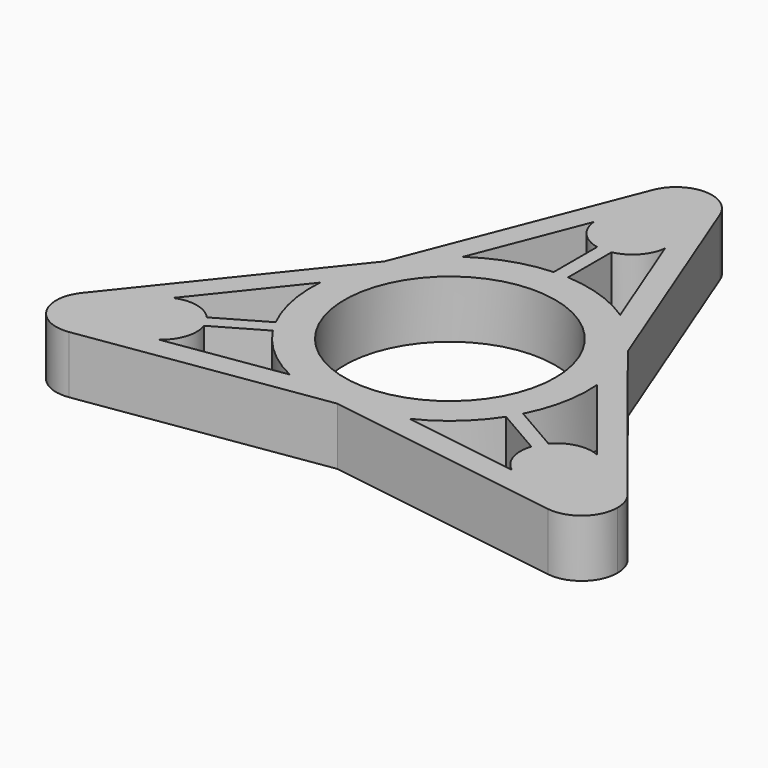
from build123d import *

# Parameters (mm, degrees)
F0_R     = 11
F1_DEPTH = 6


with BuildPart() as f1:
    # F0 (on Top) → F1 (new body)
    with BuildSketch(Plane.XY):
        with BuildLine():
            Line((-23.4410374628, -14.399714693), (-21.9907688963, -13.5624017458))
            ThreePointArc((-21.9907688963, -13.5624017458), (-22.3001541474, -12.875), (-22.7407688963, -12.2633636401))
            Line((-22.7407688963, -12.2633636401), (-24.1910374628, -13.1006765873))
            ThreePointArc((-24.1910374628, -13.1006765873), (-24.3757674093, -12.1622827062), (-24.317114362, -11.2076790978))
            ThreePointArc((-24.317114362, -11.2076790978), (-26.5881000277, -11.1471996176), (-28.4772699032, -12.4089725142))
            ThreePointArc((-28.4772699032, -12.4089725142), (-28.7953446758, -16.625), (-24.9851203838, -18.4575529095))
            ThreePointArc((-24.9851203838, -18.4575529095), (-22.9478080637, -17.4523702536), (-21.8646919971, -15.4553992353))
            ThreePointArc((-21.8646919971, -15.4553992353), (-22.7207294962, -15.0288924601), (-23.4410374628, -14.399714693))
        make_face()
        with BuildLine():
            Line((-17.0770764321, -10.7254800788), (-12.1655591981, -7.8898142816))
            ThreePointArc((-12.1655591981, -7.8898142816), (-9.565708177, -10.8971201275), (-6.2468655995, -13.0853609114))
            Line((-6.2468655995, -13.0853609114), (-18.4079175052, -14.9308263649))
            Line((-18.4079175052, -14.9308263649), (-21.8646919971, -15.4553992353))
            ThreePointArc((-21.8646919971, -15.4553992353), (-22.9478080637, -17.4523702536), (-24.9851203838, -18.4575529095))
            Line((-24.9851203838, -18.4575529095), (0, -14.6660078296))
            Line((0, -14.6660078296), (24.9851203838, -18.4575529095))
            ThreePointArc((24.9851203838, -18.4575529095), (22.9478080637, -17.4523702536), (21.8646919971, -15.4553992353))
            Line((21.8646919971, -15.4553992353), (18.4079175052, -14.9308263649))
            Line((18.4079175052, -14.9308263649), (6.2468655995, -13.0853609114))
            ThreePointArc((6.2468655995, -13.0853609114), (9.565708177, -10.8971201275), (12.1655591981, -7.8898142816))
            Line((12.1655591981, -7.8898142816), (17.0770764321, -10.7254800788))
            ThreePointArc((17.0770764321, -10.7254800788), (17.3864616832, -10.0380783331), (17.8270764321, -9.4264419731))
            Line((17.8270764321, -9.4264419731), (12.9155591981, -6.5907761759))
            ThreePointArc((12.9155591981, -6.5907761759), (14.220036947, -2.8355862227), (14.4556877667, 1.1327361525))
            Line((14.4556877667, 1.1327361525), (22.1344336841, -8.4763110078))
            Line((22.1344336841, -8.4763110078), (24.317114362, -11.2076790978))
            ThreePointArc((24.317114362, -11.2076790978), (26.5881000277, -11.1471996176), (28.4772699032, -12.4089725142))
            Line((28.4772699032, -12.4089725142), (12.7011353526, 7.3330039148))
            Line((12.7011353526, 7.3330039148), (3.4921495195, 30.8665254237))
            ThreePointArc((3.4921495195, 30.8665254237), (0, 33.25), (-3.4921495195, 30.8665254237))
            Line((-3.4921495195, 30.8665254237), (-12.7011353526, 7.3330039148))
            Line((-12.7011353526, 7.3330039148), (-28.4772699032, -12.4089725142))
            ThreePointArc((-28.4772699032, -12.4089725142), (-26.5881000277, -11.1471996176), (-24.317114362, -11.2076790978))
            Line((-24.317114362, -11.2076790978), (-22.1344336841, -8.4763110078))
            Line((-22.1344336841, -8.4763110078), (-14.4556877667, 1.1327361525))
            ThreePointArc((-14.4556877667, 1.1327361525), (-14.2015636478, -2.8319025028), (-12.9155591981, -6.5907761759))
            Line((-12.9155591981, -6.5907761759), (-17.8270764321, -9.4264419731))
            ThreePointArc((-17.8270764321, -9.4264419731), (-17.3864616832, -10.0380783331), (-17.0770764321, -10.7254800788))
        make_face()
        Circle(F0_R, mode=Mode.SUBTRACT)
        with BuildLine():
            Line((-0.75, 27.5003912803), (-0.75, 20.151922052))
            Line((-0.75, 20.151922052), (-0.75, 14.4805904576))
            ThreePointArc((-0.75, 14.4805904576), (-4.65432877, 13.7327063502), (-8.2088221672, 11.9526247589))
            Line((-8.2088221672, 11.9526247589), (-3.7265161789, 23.4071373727))
            Line((-3.7265161789, 23.4071373727), (-2.4524223649, 26.6630783331))
            ThreePointArc((-2.4524223649, 26.6630783331), (-1.6550379131, 27.1911751663), (-0.75, 27.5003912803))
        make_face(mode=Mode.SUBTRACT)
        with BuildLine():
            ThreePointArc((0.75, 27.5003912803), (1.6550379131, 27.1911751663), (2.4524223649, 26.6630783331))
            Line((2.4524223649, 26.6630783331), (3.7265161789, 23.4071373727))
            Line((3.7265161789, 23.4071373727), (8.2088221672, 11.9526247589))
            ThreePointArc((8.2088221672, 11.9526247589), (4.6482823154, 13.7148661438), (0.75, 14.4805904576))
            Line((0.75, 14.4805904576), (0.75, 20.151922052))
            Line((0.75, 20.151922052), (0.75, 27.5003912803))
        make_face(mode=Mode.SUBTRACT)
        with BuildLine():
            ThreePointArc((21.8646919971, -15.4553992353), (22.9478080637, -17.4523702536), (24.9851203838, -18.4575529095))
            ThreePointArc((24.9851203838, -18.4575529095), (27.9924008332, -17.5936208304), (29.2977494116, -14.75))
            ThreePointArc((29.2977494116, -14.75), (29.0866900613, -13.5096778329), (28.4772699032, -12.4089725142))
            ThreePointArc((28.4772699032, -12.4089725142), (26.5881000277, -11.1471996176), (24.317114362, -11.2076790978))
            ThreePointArc((24.317114362, -11.2076790978), (24.3757674093, -12.1622827062), (24.1910374628, -13.1006765873))
            Line((24.1910374628, -13.1006765873), (22.7407688963, -12.2633636401))
            ThreePointArc((22.7407688963, -12.2633636401), (22.3001541474, -12.875), (21.9907688963, -13.5624017458))
            Line((21.9907688963, -13.5624017458), (23.4410374628, -14.399714693))
            ThreePointArc((23.4410374628, -14.399714693), (22.7207294962, -15.0288924601), (21.8646919971, -15.4553992353))
        make_face()
        with BuildLine():
            Line((-17.0770764321, -10.7254800788), (-12.1655591981, -7.8898142816))
            ThreePointArc((-12.1655591981, -7.8898142816), (-9.565708177, -10.8971201275), (-6.2468655995, -13.0853609114))
            Line((-6.2468655995, -13.0853609114), (-18.4079175052, -14.9308263649))
            Line((-18.4079175052, -14.9308263649), (-21.8646919971, -15.4553992353))
            ThreePointArc((-21.8646919971, -15.4553992353), (-22.9478080637, -17.4523702536), (-24.9851203838, -18.4575529095))
            Line((-24.9851203838, -18.4575529095), (0, -14.6660078296))
            Line((0, -14.6660078296), (24.9851203838, -18.4575529095))
            ThreePointArc((24.9851203838, -18.4575529095), (22.9478080637, -17.4523702536), (21.8646919971, -15.4553992353))
            Line((21.8646919971, -15.4553992353), (18.4079175052, -14.9308263649))
            Line((18.4079175052, -14.9308263649), (6.2468655995, -13.0853609114))
            ThreePointArc((6.2468655995, -13.0853609114), (9.565708177, -10.8971201275), (12.1655591981, -7.8898142816))
            Line((12.1655591981, -7.8898142816), (17.0770764321, -10.7254800788))
            ThreePointArc((17.0770764321, -10.7254800788), (17.3864616832, -10.0380783331), (17.8270764321, -9.4264419731))
            Line((17.8270764321, -9.4264419731), (12.9155591981, -6.5907761759))
            ThreePointArc((12.9155591981, -6.5907761759), (14.220036947, -2.8355862227), (14.4556877667, 1.1327361525))
            Line((14.4556877667, 1.1327361525), (22.1344336841, -8.4763110078))
            Line((22.1344336841, -8.4763110078), (24.317114362, -11.2076790978))
            ThreePointArc((24.317114362, -11.2076790978), (26.5881000277, -11.1471996176), (28.4772699032, -12.4089725142))
            Line((28.4772699032, -12.4089725142), (12.7011353526, 7.3330039148))
            Line((12.7011353526, 7.3330039148), (3.4921495195, 30.8665254237))
            ThreePointArc((3.4921495195, 30.8665254237), (0, 33.25), (-3.4921495195, 30.8665254237))
            Line((-3.4921495195, 30.8665254237), (-12.7011353526, 7.3330039148))
            Line((-12.7011353526, 7.3330039148), (-28.4772699032, -12.4089725142))
            ThreePointArc((-28.4772699032, -12.4089725142), (-26.5881000277, -11.1471996176), (-24.317114362, -11.2076790978))
            Line((-24.317114362, -11.2076790978), (-22.1344336841, -8.4763110078))
            Line((-22.1344336841, -8.4763110078), (-14.4556877667, 1.1327361525))
            ThreePointArc((-14.4556877667, 1.1327361525), (-14.2015636478, -2.8319025028), (-12.9155591981, -6.5907761759))
            Line((-12.9155591981, -6.5907761759), (-17.8270764321, -9.4264419731))
            ThreePointArc((-17.8270764321, -9.4264419731), (-17.3864616832, -10.0380783331), (-17.0770764321, -10.7254800788))
        make_face()
        Circle(F0_R, mode=Mode.SUBTRACT)
        with BuildLine():
            Line((-0.75, 27.5003912803), (-0.75, 20.151922052))
            Line((-0.75, 20.151922052), (-0.75, 14.4805904576))
            ThreePointArc((-0.75, 14.4805904576), (-4.65432877, 13.7327063502), (-8.2088221672, 11.9526247589))
            Line((-8.2088221672, 11.9526247589), (-3.7265161789, 23.4071373727))
            Line((-3.7265161789, 23.4071373727), (-2.4524223649, 26.6630783331))
            ThreePointArc((-2.4524223649, 26.6630783331), (-1.6550379131, 27.1911751663), (-0.75, 27.5003912803))
        make_face(mode=Mode.SUBTRACT)
        with BuildLine():
            ThreePointArc((0.75, 27.5003912803), (1.6550379131, 27.1911751663), (2.4524223649, 26.6630783331))
            Line((2.4524223649, 26.6630783331), (3.7265161789, 23.4071373727))
            Line((3.7265161789, 23.4071373727), (8.2088221672, 11.9526247589))
            ThreePointArc((8.2088221672, 11.9526247589), (4.6482823154, 13.7148661438), (0.75, 14.4805904576))
            Line((0.75, 14.4805904576), (0.75, 20.151922052))
            Line((0.75, 20.151922052), (0.75, 27.5003912803))
        make_face(mode=Mode.SUBTRACT)
        with BuildLine():
            Line((-24.1910374628, -13.1006765873), (-22.7407688963, -12.2633636401))
            ThreePointArc((-22.7407688963, -12.2633636401), (-23.4610768628, -11.634185873), (-24.317114362, -11.2076790978))
            ThreePointArc((-24.317114362, -11.2076790978), (-24.3757674093, -12.1622827062), (-24.1910374628, -13.1006765873))
        make_face()
        with BuildLine():
            Line((-22.7407688963, -12.2633636401), (-17.8270764321, -9.4264419731))
            ThreePointArc((-17.8270764321, -9.4264419731), (-19.8262880625, -8.251110361), (-22.1344336841, -8.4763110078))
            Line((-22.1344336841, -8.4763110078), (-24.317114362, -11.2076790978))
            ThreePointArc((-24.317114362, -11.2076790978), (-23.4610768628, -11.634185873), (-22.7407688963, -12.2633636401))
        make_face()
        with BuildLine():
            ThreePointArc((-18.4079175052, -14.9308263649), (-17.0588152133, -13.0445139444), (-17.0770764321, -10.7254800788))
            Line((-17.0770764321, -10.7254800788), (-21.9907688963, -13.5624017458))
            ThreePointArc((-21.9907688963, -13.5624017458), (-21.8463188144, -14.1484091642), (-21.7977494116, -14.75))
            ThreePointArc((-21.7977494116, -14.75), (-21.8145225699, -15.1042842753), (-21.8646919971, -15.4553992353))
            Line((-21.8646919971, -15.4553992353), (-18.4079175052, -14.9308263649))
        make_face()
        with BuildLine():
            Line((-17.0770764321, -10.7254800788), (-12.1655591981, -7.8898142816))
            ThreePointArc((-12.1655591981, -7.8898142816), (-9.565708177, -10.8971201275), (-6.2468655995, -13.0853609114))
            Line((-6.2468655995, -13.0853609114), (-18.4079175052, -14.9308263649))
            Line((-18.4079175052, -14.9308263649), (-21.8646919971, -15.4553992353))
            ThreePointArc((-21.8646919971, -15.4553992353), (-22.9478080637, -17.4523702536), (-24.9851203838, -18.4575529095))
            Line((-24.9851203838, -18.4575529095), (0, -14.6660078296))
            Line((0, -14.6660078296), (24.9851203838, -18.4575529095))
            ThreePointArc((24.9851203838, -18.4575529095), (22.9478080637, -17.4523702536), (21.8646919971, -15.4553992353))
            Line((21.8646919971, -15.4553992353), (18.4079175052, -14.9308263649))
            Line((18.4079175052, -14.9308263649), (6.2468655995, -13.0853609114))
            ThreePointArc((6.2468655995, -13.0853609114), (9.565708177, -10.8971201275), (12.1655591981, -7.8898142816))
            Line((12.1655591981, -7.8898142816), (17.0770764321, -10.7254800788))
            ThreePointArc((17.0770764321, -10.7254800788), (17.3864616832, -10.0380783331), (17.8270764321, -9.4264419731))
            Line((17.8270764321, -9.4264419731), (12.9155591981, -6.5907761759))
            ThreePointArc((12.9155591981, -6.5907761759), (14.220036947, -2.8355862227), (14.4556877667, 1.1327361525))
            Line((14.4556877667, 1.1327361525), (22.1344336841, -8.4763110078))
            Line((22.1344336841, -8.4763110078), (24.317114362, -11.2076790978))
            ThreePointArc((24.317114362, -11.2076790978), (26.5881000277, -11.1471996176), (28.4772699032, -12.4089725142))
            Line((28.4772699032, -12.4089725142), (12.7011353526, 7.3330039148))
            Line((12.7011353526, 7.3330039148), (3.4921495195, 30.8665254237))
            ThreePointArc((3.4921495195, 30.8665254237), (0, 33.25), (-3.4921495195, 30.8665254237))
            Line((-3.4921495195, 30.8665254237), (-12.7011353526, 7.3330039148))
            Line((-12.7011353526, 7.3330039148), (-28.4772699032, -12.4089725142))
            ThreePointArc((-28.4772699032, -12.4089725142), (-26.5881000277, -11.1471996176), (-24.317114362, -11.2076790978))
            Line((-24.317114362, -11.2076790978), (-22.1344336841, -8.4763110078))
            Line((-22.1344336841, -8.4763110078), (-14.4556877667, 1.1327361525))
            ThreePointArc((-14.4556877667, 1.1327361525), (-14.2015636478, -2.8319025028), (-12.9155591981, -6.5907761759))
            Line((-12.9155591981, -6.5907761759), (-17.8270764321, -9.4264419731))
            ThreePointArc((-17.8270764321, -9.4264419731), (-17.3864616832, -10.0380783331), (-17.0770764321, -10.7254800788))
        make_face()
        Circle(F0_R, mode=Mode.SUBTRACT)
        with BuildLine():
            Line((-0.75, 27.5003912803), (-0.75, 20.151922052))
            Line((-0.75, 20.151922052), (-0.75, 14.4805904576))
            ThreePointArc((-0.75, 14.4805904576), (-4.65432877, 13.7327063502), (-8.2088221672, 11.9526247589))
            Line((-8.2088221672, 11.9526247589), (-3.7265161789, 23.4071373727))
            Line((-3.7265161789, 23.4071373727), (-2.4524223649, 26.6630783331))
            ThreePointArc((-2.4524223649, 26.6630783331), (-1.6550379131, 27.1911751663), (-0.75, 27.5003912803))
        make_face(mode=Mode.SUBTRACT)
        with BuildLine():
            ThreePointArc((0.75, 27.5003912803), (1.6550379131, 27.1911751663), (2.4524223649, 26.6630783331))
            Line((2.4524223649, 26.6630783331), (3.7265161789, 23.4071373727))
            Line((3.7265161789, 23.4071373727), (8.2088221672, 11.9526247589))
            ThreePointArc((8.2088221672, 11.9526247589), (4.6482823154, 13.7148661438), (0.75, 14.4805904576))
            Line((0.75, 14.4805904576), (0.75, 20.151922052))
            Line((0.75, 20.151922052), (0.75, 27.5003912803))
        make_face(mode=Mode.SUBTRACT)
        with BuildLine():
            ThreePointArc((-21.7977494116, -14.75), (-21.8463188144, -14.1484091642), (-21.9907688963, -13.5624017458))
            Line((-21.9907688963, -13.5624017458), (-23.4410374628, -14.399714693))
            ThreePointArc((-23.4410374628, -14.399714693), (-22.7207294962, -15.0288924601), (-21.8646919971, -15.4553992353))
            ThreePointArc((-21.8646919971, -15.4553992353), (-21.8145225699, -15.1042842753), (-21.7977494116, -14.75))
        make_face()
        with BuildLine():
            Line((-21.9907688963, -13.5624017458), (-17.0770764321, -10.7254800788))
            ThreePointArc((-17.0770764321, -10.7254800788), (-17.3864616832, -10.0380783331), (-17.8270764321, -9.4264419731))
            Line((-17.8270764321, -9.4264419731), (-22.7407688963, -12.2633636401))
            ThreePointArc((-22.7407688963, -12.2633636401), (-22.3001541474, -12.875), (-21.9907688963, -13.5624017458))
        make_face()
        with BuildLine():
            Line((-17.0770764321, -10.7254800788), (-12.1655591981, -7.8898142816))
            ThreePointArc((-12.1655591981, -7.8898142816), (-9.565708177, -10.8971201275), (-6.2468655995, -13.0853609114))
            Line((-6.2468655995, -13.0853609114), (-18.4079175052, -14.9308263649))
            Line((-18.4079175052, -14.9308263649), (-21.8646919971, -15.4553992353))
            ThreePointArc((-21.8646919971, -15.4553992353), (-22.9478080637, -17.4523702536), (-24.9851203838, -18.4575529095))
            Line((-24.9851203838, -18.4575529095), (0, -14.6660078296))
            Line((0, -14.6660078296), (24.9851203838, -18.4575529095))
            ThreePointArc((24.9851203838, -18.4575529095), (22.9478080637, -17.4523702536), (21.8646919971, -15.4553992353))
            Line((21.8646919971, -15.4553992353), (18.4079175052, -14.9308263649))
            Line((18.4079175052, -14.9308263649), (6.2468655995, -13.0853609114))
            ThreePointArc((6.2468655995, -13.0853609114), (9.565708177, -10.8971201275), (12.1655591981, -7.8898142816))
            Line((12.1655591981, -7.8898142816), (17.0770764321, -10.7254800788))
            ThreePointArc((17.0770764321, -10.7254800788), (17.3864616832, -10.0380783331), (17.8270764321, -9.4264419731))
            Line((17.8270764321, -9.4264419731), (12.9155591981, -6.5907761759))
            ThreePointArc((12.9155591981, -6.5907761759), (14.220036947, -2.8355862227), (14.4556877667, 1.1327361525))
            Line((14.4556877667, 1.1327361525), (22.1344336841, -8.4763110078))
            Line((22.1344336841, -8.4763110078), (24.317114362, -11.2076790978))
            ThreePointArc((24.317114362, -11.2076790978), (26.5881000277, -11.1471996176), (28.4772699032, -12.4089725142))
            Line((28.4772699032, -12.4089725142), (12.7011353526, 7.3330039148))
            Line((12.7011353526, 7.3330039148), (3.4921495195, 30.8665254237))
            ThreePointArc((3.4921495195, 30.8665254237), (0, 33.25), (-3.4921495195, 30.8665254237))
            Line((-3.4921495195, 30.8665254237), (-12.7011353526, 7.3330039148))
            Line((-12.7011353526, 7.3330039148), (-28.4772699032, -12.4089725142))
            ThreePointArc((-28.4772699032, -12.4089725142), (-26.5881000277, -11.1471996176), (-24.317114362, -11.2076790978))
            Line((-24.317114362, -11.2076790978), (-22.1344336841, -8.4763110078))
            Line((-22.1344336841, -8.4763110078), (-14.4556877667, 1.1327361525))
            ThreePointArc((-14.4556877667, 1.1327361525), (-14.2015636478, -2.8319025028), (-12.9155591981, -6.5907761759))
            Line((-12.9155591981, -6.5907761759), (-17.8270764321, -9.4264419731))
            ThreePointArc((-17.8270764321, -9.4264419731), (-17.3864616832, -10.0380783331), (-17.0770764321, -10.7254800788))
        make_face()
        Circle(F0_R, mode=Mode.SUBTRACT)
        with BuildLine():
            Line((-0.75, 27.5003912803), (-0.75, 20.151922052))
            Line((-0.75, 20.151922052), (-0.75, 14.4805904576))
            ThreePointArc((-0.75, 14.4805904576), (-4.65432877, 13.7327063502), (-8.2088221672, 11.9526247589))
            Line((-8.2088221672, 11.9526247589), (-3.7265161789, 23.4071373727))
            Line((-3.7265161789, 23.4071373727), (-2.4524223649, 26.6630783331))
            ThreePointArc((-2.4524223649, 26.6630783331), (-1.6550379131, 27.1911751663), (-0.75, 27.5003912803))
        make_face(mode=Mode.SUBTRACT)
        with BuildLine():
            ThreePointArc((0.75, 27.5003912803), (1.6550379131, 27.1911751663), (2.4524223649, 26.6630783331))
            Line((2.4524223649, 26.6630783331), (3.7265161789, 23.4071373727))
            Line((3.7265161789, 23.4071373727), (8.2088221672, 11.9526247589))
            ThreePointArc((8.2088221672, 11.9526247589), (4.6482823154, 13.7148661438), (0.75, 14.4805904576))
            Line((0.75, 14.4805904576), (0.75, 20.151922052))
            Line((0.75, 20.151922052), (0.75, 27.5003912803))
        make_face(mode=Mode.SUBTRACT)
        with BuildLine():
            Line((18.4079175052, -14.9308263649), (21.8646919971, -15.4553992353))
            ThreePointArc((21.8646919971, -15.4553992353), (21.8060389498, -14.5007956269), (21.9907688963, -13.5624017458))
            Line((21.9907688963, -13.5624017458), (17.0770764321, -10.7254800788))
            ThreePointArc((17.0770764321, -10.7254800788), (17.0588152133, -13.0445139444), (18.4079175052, -14.9308263649))
        make_face()
        with BuildLine():
            Line((17.8270764321, -9.4264419731), (22.7407688963, -12.2633636401))
            ThreePointArc((22.7407688963, -12.2633636401), (23.4610768628, -11.634185873), (24.317114362, -11.2076790978))
            Line((24.317114362, -11.2076790978), (22.1344336841, -8.4763110078))
            ThreePointArc((22.1344336841, -8.4763110078), (19.8262880625, -8.251110361), (17.8270764321, -9.4264419731))
        make_face()
        with BuildLine():
            Line((-17.0770764321, -10.7254800788), (-12.1655591981, -7.8898142816))
            ThreePointArc((-12.1655591981, -7.8898142816), (-9.565708177, -10.8971201275), (-6.2468655995, -13.0853609114))
            Line((-6.2468655995, -13.0853609114), (-18.4079175052, -14.9308263649))
            Line((-18.4079175052, -14.9308263649), (-21.8646919971, -15.4553992353))
            ThreePointArc((-21.8646919971, -15.4553992353), (-22.9478080637, -17.4523702536), (-24.9851203838, -18.4575529095))
            Line((-24.9851203838, -18.4575529095), (0, -14.6660078296))
            Line((0, -14.6660078296), (24.9851203838, -18.4575529095))
            ThreePointArc((24.9851203838, -18.4575529095), (22.9478080637, -17.4523702536), (21.8646919971, -15.4553992353))
            Line((21.8646919971, -15.4553992353), (18.4079175052, -14.9308263649))
            Line((18.4079175052, -14.9308263649), (6.2468655995, -13.0853609114))
            ThreePointArc((6.2468655995, -13.0853609114), (9.565708177, -10.8971201275), (12.1655591981, -7.8898142816))
            Line((12.1655591981, -7.8898142816), (17.0770764321, -10.7254800788))
            ThreePointArc((17.0770764321, -10.7254800788), (17.3864616832, -10.0380783331), (17.8270764321, -9.4264419731))
            Line((17.8270764321, -9.4264419731), (12.9155591981, -6.5907761759))
            ThreePointArc((12.9155591981, -6.5907761759), (14.220036947, -2.8355862227), (14.4556877667, 1.1327361525))
            Line((14.4556877667, 1.1327361525), (22.1344336841, -8.4763110078))
            Line((22.1344336841, -8.4763110078), (24.317114362, -11.2076790978))
            ThreePointArc((24.317114362, -11.2076790978), (26.5881000277, -11.1471996176), (28.4772699032, -12.4089725142))
            Line((28.4772699032, -12.4089725142), (12.7011353526, 7.3330039148))
            Line((12.7011353526, 7.3330039148), (3.4921495195, 30.8665254237))
            ThreePointArc((3.4921495195, 30.8665254237), (0, 33.25), (-3.4921495195, 30.8665254237))
            Line((-3.4921495195, 30.8665254237), (-12.7011353526, 7.3330039148))
            Line((-12.7011353526, 7.3330039148), (-28.4772699032, -12.4089725142))
            ThreePointArc((-28.4772699032, -12.4089725142), (-26.5881000277, -11.1471996176), (-24.317114362, -11.2076790978))
            Line((-24.317114362, -11.2076790978), (-22.1344336841, -8.4763110078))
            Line((-22.1344336841, -8.4763110078), (-14.4556877667, 1.1327361525))
            ThreePointArc((-14.4556877667, 1.1327361525), (-14.2015636478, -2.8319025028), (-12.9155591981, -6.5907761759))
            Line((-12.9155591981, -6.5907761759), (-17.8270764321, -9.4264419731))
            ThreePointArc((-17.8270764321, -9.4264419731), (-17.3864616832, -10.0380783331), (-17.0770764321, -10.7254800788))
        make_face()
        Circle(F0_R, mode=Mode.SUBTRACT)
        with BuildLine():
            Line((-0.75, 27.5003912803), (-0.75, 20.151922052))
            Line((-0.75, 20.151922052), (-0.75, 14.4805904576))
            ThreePointArc((-0.75, 14.4805904576), (-4.65432877, 13.7327063502), (-8.2088221672, 11.9526247589))
            Line((-8.2088221672, 11.9526247589), (-3.7265161789, 23.4071373727))
            Line((-3.7265161789, 23.4071373727), (-2.4524223649, 26.6630783331))
            ThreePointArc((-2.4524223649, 26.6630783331), (-1.6550379131, 27.1911751663), (-0.75, 27.5003912803))
        make_face(mode=Mode.SUBTRACT)
        with BuildLine():
            ThreePointArc((0.75, 27.5003912803), (1.6550379131, 27.1911751663), (2.4524223649, 26.6630783331))
            Line((2.4524223649, 26.6630783331), (3.7265161789, 23.4071373727))
            Line((3.7265161789, 23.4071373727), (8.2088221672, 11.9526247589))
            ThreePointArc((8.2088221672, 11.9526247589), (4.6482823154, 13.7148661438), (0.75, 14.4805904576))
            Line((0.75, 14.4805904576), (0.75, 20.151922052))
            Line((0.75, 20.151922052), (0.75, 27.5003912803))
        make_face(mode=Mode.SUBTRACT)
        with BuildLine():
            Line((17.0770764321, -10.7254800788), (21.9907688963, -13.5624017458))
            ThreePointArc((21.9907688963, -13.5624017458), (22.3001541474, -12.875), (22.7407688963, -12.2633636401))
            Line((22.7407688963, -12.2633636401), (17.8270764321, -9.4264419731))
            ThreePointArc((17.8270764321, -9.4264419731), (17.3864616832, -10.0380783331), (17.0770764321, -10.7254800788))
        make_face()
        with BuildLine():
            Line((-17.0770764321, -10.7254800788), (-12.1655591981, -7.8898142816))
            ThreePointArc((-12.1655591981, -7.8898142816), (-9.565708177, -10.8971201275), (-6.2468655995, -13.0853609114))
            Line((-6.2468655995, -13.0853609114), (-18.4079175052, -14.9308263649))
            Line((-18.4079175052, -14.9308263649), (-21.8646919971, -15.4553992353))
            ThreePointArc((-21.8646919971, -15.4553992353), (-22.9478080637, -17.4523702536), (-24.9851203838, -18.4575529095))
            Line((-24.9851203838, -18.4575529095), (0, -14.6660078296))
            Line((0, -14.6660078296), (24.9851203838, -18.4575529095))
            ThreePointArc((24.9851203838, -18.4575529095), (22.9478080637, -17.4523702536), (21.8646919971, -15.4553992353))
            Line((21.8646919971, -15.4553992353), (18.4079175052, -14.9308263649))
            Line((18.4079175052, -14.9308263649), (6.2468655995, -13.0853609114))
            ThreePointArc((6.2468655995, -13.0853609114), (9.565708177, -10.8971201275), (12.1655591981, -7.8898142816))
            Line((12.1655591981, -7.8898142816), (17.0770764321, -10.7254800788))
            ThreePointArc((17.0770764321, -10.7254800788), (17.3864616832, -10.0380783331), (17.8270764321, -9.4264419731))
            Line((17.8270764321, -9.4264419731), (12.9155591981, -6.5907761759))
            ThreePointArc((12.9155591981, -6.5907761759), (14.220036947, -2.8355862227), (14.4556877667, 1.1327361525))
            Line((14.4556877667, 1.1327361525), (22.1344336841, -8.4763110078))
            Line((22.1344336841, -8.4763110078), (24.317114362, -11.2076790978))
            ThreePointArc((24.317114362, -11.2076790978), (26.5881000277, -11.1471996176), (28.4772699032, -12.4089725142))
            Line((28.4772699032, -12.4089725142), (12.7011353526, 7.3330039148))
            Line((12.7011353526, 7.3330039148), (3.4921495195, 30.8665254237))
            ThreePointArc((3.4921495195, 30.8665254237), (0, 33.25), (-3.4921495195, 30.8665254237))
            Line((-3.4921495195, 30.8665254237), (-12.7011353526, 7.3330039148))
            Line((-12.7011353526, 7.3330039148), (-28.4772699032, -12.4089725142))
            ThreePointArc((-28.4772699032, -12.4089725142), (-26.5881000277, -11.1471996176), (-24.317114362, -11.2076790978))
            Line((-24.317114362, -11.2076790978), (-22.1344336841, -8.4763110078))
            Line((-22.1344336841, -8.4763110078), (-14.4556877667, 1.1327361525))
            ThreePointArc((-14.4556877667, 1.1327361525), (-14.2015636478, -2.8319025028), (-12.9155591981, -6.5907761759))
            Line((-12.9155591981, -6.5907761759), (-17.8270764321, -9.4264419731))
            ThreePointArc((-17.8270764321, -9.4264419731), (-17.3864616832, -10.0380783331), (-17.0770764321, -10.7254800788))
        make_face()
        Circle(F0_R, mode=Mode.SUBTRACT)
        with BuildLine():
            Line((-0.75, 27.5003912803), (-0.75, 20.151922052))
            Line((-0.75, 20.151922052), (-0.75, 14.4805904576))
            ThreePointArc((-0.75, 14.4805904576), (-4.65432877, 13.7327063502), (-8.2088221672, 11.9526247589))
            Line((-8.2088221672, 11.9526247589), (-3.7265161789, 23.4071373727))
            Line((-3.7265161789, 23.4071373727), (-2.4524223649, 26.6630783331))
            ThreePointArc((-2.4524223649, 26.6630783331), (-1.6550379131, 27.1911751663), (-0.75, 27.5003912803))
        make_face(mode=Mode.SUBTRACT)
        with BuildLine():
            ThreePointArc((0.75, 27.5003912803), (1.6550379131, 27.1911751663), (2.4524223649, 26.6630783331))
            Line((2.4524223649, 26.6630783331), (3.7265161789, 23.4071373727))
            Line((3.7265161789, 23.4071373727), (8.2088221672, 11.9526247589))
            ThreePointArc((8.2088221672, 11.9526247589), (4.6482823154, 13.7148661438), (0.75, 14.4805904576))
            Line((0.75, 14.4805904576), (0.75, 20.151922052))
            Line((0.75, 20.151922052), (0.75, 27.5003912803))
        make_face(mode=Mode.SUBTRACT)
        with BuildLine():
            ThreePointArc((-3.7265161789, 23.4071373727), (-2.7674728492, 21.2956243054), (-0.75, 20.151922052))
            Line((-0.75, 20.151922052), (-0.75, 27.5003912803))
            ThreePointArc((-0.75, 27.5003912803), (-1.6550379131, 27.1911751663), (-2.4524223649, 26.6630783331))
            Line((-2.4524223649, 26.6630783331), (-3.7265161789, 23.4071373727))
        make_face()
        with BuildLine():
            Line((3.7265161789, 23.4071373727), (2.4524223649, 26.6630783331))
            ThreePointArc((2.4524223649, 26.6630783331), (1.6550379131, 27.1911751663), (0.75, 27.5003912803))
            Line((0.75, 27.5003912803), (0.75, 20.151922052))
            ThreePointArc((0.75, 20.151922052), (2.7674728492, 21.2956243054), (3.7265161789, 23.4071373727))
        make_face()
        with BuildLine():
            ThreePointArc((24.317114362, -11.2076790978), (23.4610768628, -11.634185873), (22.7407688963, -12.2633636401))
            Line((22.7407688963, -12.2633636401), (24.1910374628, -13.1006765873))
            ThreePointArc((24.1910374628, -13.1006765873), (24.3757674093, -12.1622827062), (24.317114362, -11.2076790978))
        make_face()
        with BuildLine():
            ThreePointArc((21.9907688963, -13.5624017458), (21.8060389498, -14.5007956269), (21.8646919971, -15.4553992353))
            ThreePointArc((21.8646919971, -15.4553992353), (22.7207294962, -15.0288924601), (23.4410374628, -14.399714693))
            Line((23.4410374628, -14.399714693), (21.9907688963, -13.5624017458))
        make_face()
    extrude(amount=F1_DEPTH)


solid = f1.part
